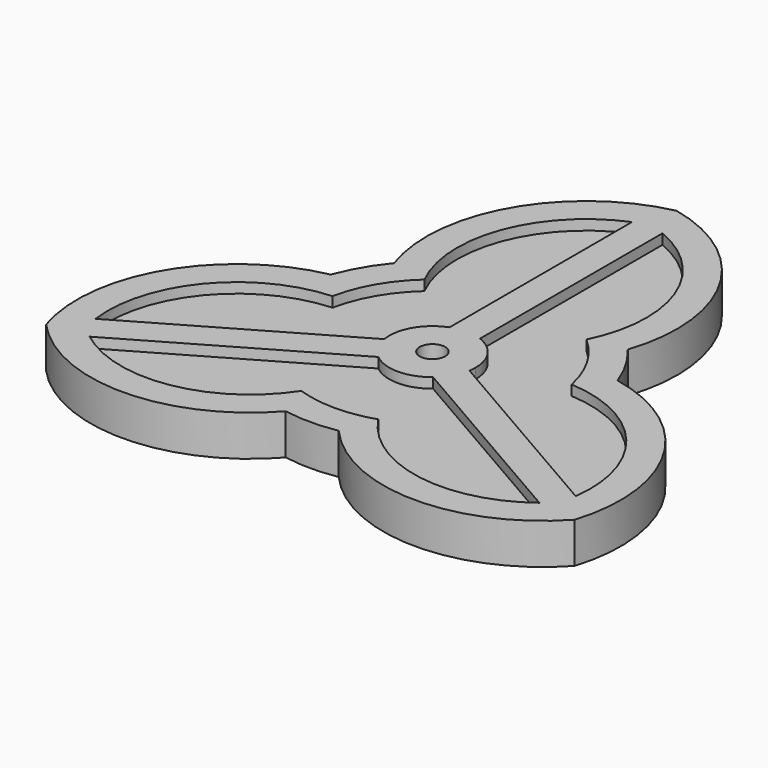
from build123d import *

# Parameters (mm, degrees)
F0_R     = 1.25
F1_DEPTH = 4
F3_DEPTH = 1


with BuildPart() as f1:
    # F0 (on Top) → F1 (new body)
    with BuildSketch(Plane.XY):
        with BuildLine():
            ThreePointArc((-25.980762, -15), (-14.241863, -20.10519), (-2.604723, -14.772116))
            ThreePointArc((-2.604723, -14.772116), (-12.990381, -7.5), (-14.095389, 5.130302))
            ThreePointArc((-14.095389, 5.130302), (-24.532537, -2.28122), (-25.980762, -15))
        make_face()
        with BuildLine():
            ThreePointArc((2.604723, -14.772116), (11.490667, -9.641814), (15, 0))
            ThreePointArc((15, 0), (14.772116, 2.604723), (14.095389, 5.130302))
            ThreePointArc((14.095389, 5.130302), (12.990381, 7.5), (11.490667, 9.641814))
            ThreePointArc((11.490667, 9.641814), (6.339274, 13.594617), (0, 15))
            ThreePointArc((0, 15), (-6.339274, 13.594617), (-11.490667, 9.641814))
            ThreePointArc((-11.490667, 9.641814), (-12.990381, 7.5), (-14.095389, 5.130302))
            ThreePointArc((-14.095389, 5.130302), (-12.990381, -7.5), (-2.604723, -14.772116))
            ThreePointArc((-2.604723, -14.772116), (0, -15), (2.604723, -14.772116))
        make_face()
        Circle(F0_R, mode=Mode.SUBTRACT)
        with BuildLine():
            ThreePointArc((-11.490667, 9.641814), (-6.339274, 13.594617), (0, 15))
            Line((0, 15), (0, 30))
            ThreePointArc((0, 30), (-10.290674, 22.38641), (-11.490667, 9.641814))
        make_face()
        with BuildLine():
            ThreePointArc((14.095389, 5.130302), (14.772116, 2.604723), (15, 0))
            ThreePointArc((15, 0), (11.490667, -9.641814), (2.604723, -14.772116))
            ThreePointArc((2.604723, -14.772116), (14.241863, -20.10519), (25.980762, -15))
            ThreePointArc((25.980762, -15), (24.532537, -2.28122), (14.095389, 5.130302))
        make_face()
        with BuildLine():
            ThreePointArc((0, 15), (6.339274, 13.594617), (11.490667, 9.641814))
            ThreePointArc((11.490667, 9.641814), (10.290674, 22.38641), (0, 30))
            Line((0, 30), (0, 15))
        make_face()
    extrude(amount=F1_DEPTH)

    # F2 (on face) → F3 (cut)
    with BuildSketch(Plane.XY.offset(4)):
        with BuildLine():
            ThreePointArc((-4.193744, -0.689209), (-3.680608, 2.125), (-1.5, 3.976493))
            Line((-1.5, 3.976493), (-1.5, 26.393051))
            ThreePointArc((-1.5, 26.393051), (-8.523897, 19.09014), (-7.967874, 8.972903))
            ThreePointArc((-7.967874, 8.972903), (-10.392305, 6), (-11.754699, 2.41393))
            ThreePointArc((-11.754699, 2.41393), (-20.794495, -2.163158), (-23.607053, -11.897487))
            Line((-23.607053, -11.897487), (-4.193744, -0.689209))
        make_face()
        with BuildLine():
            ThreePointArc((1.5, 3.976493), (3.495533, 2.417385), (4.25, 0))
            ThreePointArc((4.25, 0), (4.235913, -0.34575), (4.193744, -0.689209))
            Line((4.193744, -0.689209), (23.607053, -11.897487))
            ThreePointArc((23.607053, -11.897487), (20.794495, -2.163158), (11.754699, 2.41393))
            ThreePointArc((11.754699, 2.41393), (10.392305, 6), (7.967874, 8.972903))
            ThreePointArc((7.967874, 8.972903), (8.523897, 19.09014), (1.5, 26.393051))
            Line((1.5, 26.393051), (1.5, 3.976493))
        make_face()
        with BuildLine():
            Line((22.107053, -14.495564), (2.693744, -3.287285))
            ThreePointArc((2.693744, -3.287285), (0, -4.25), (-2.693744, -3.287285))
            Line((-2.693744, -3.287285), (-22.107053, -14.495564))
            ThreePointArc((-22.107053, -14.495564), (-12.270597, -16.926981), (-3.786824, -11.386833))
            ThreePointArc((-3.786824, -11.386833), (0, -12), (3.786824, -11.386833))
            ThreePointArc((3.786824, -11.386833), (12.270597, -16.926981), (22.107053, -14.495564))
        make_face()
    extrude(amount=-F3_DEPTH, mode=Mode.SUBTRACT)


solid = f1.part
